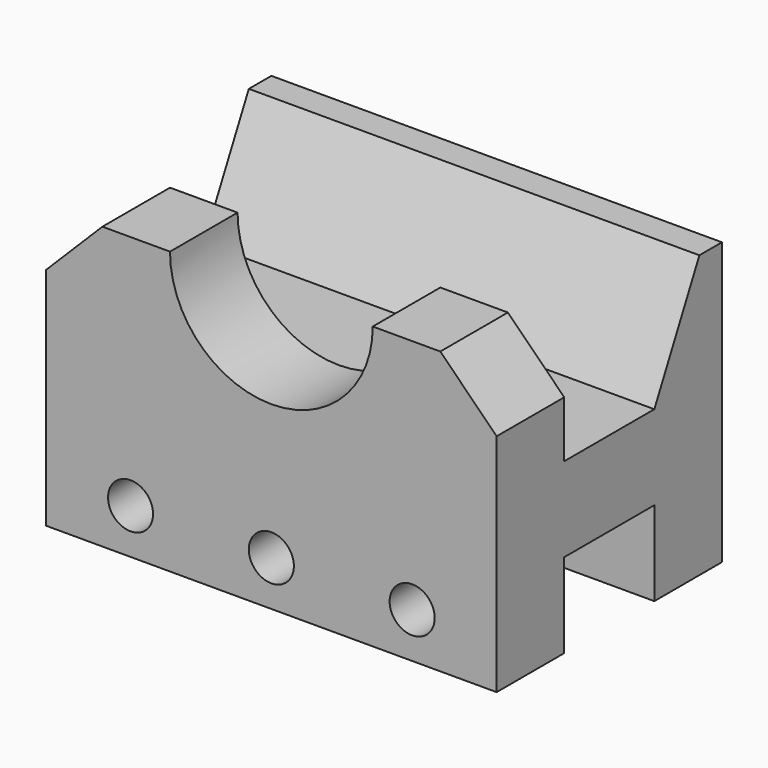
from build123d import *

# Parameters (mm, degrees)
F0_W      = 80
F0_H      = 50
F1_DEPTH  = 50
F2_W      = 20
F2_H      = 15
F3_DEPTH  = 80.001
F5_DEPTH  = 80.001
F7_DEPTH  = 15
F8_SIZE   = 10
F9_R      = 4
F10_DEPTH = 50.001


with BuildPart() as f1:
    # F0 (on Top) → F1 (new body)
    with BuildSketch(Plane.XY):
        Rectangle(F0_W, F0_H)
    extrude(amount=F1_DEPTH)

    # F2 (on face) → F3 (cut, through all)
    with BuildSketch(Plane.YZ.offset(40)):
        with Locations((0, 7.5)):
            Rectangle(F2_W, F2_H)
    extrude(amount=-F3_DEPTH, mode=Mode.SUBTRACT)

    # F4 (on face) → F5 (cut, through all)
    with BuildSketch(Plane.YZ.offset(40)):
        Polygon((20, 50), (-10, 50), (-10, 30), (10, 30), align=None)
    extrude(amount=-F5_DEPTH, mode=Mode.SUBTRACT)

    # F6 (on face) → F7 (cut, through all)
    with BuildSketch(Plane.XZ.offset(25)):
        with BuildLine():
            ThreePointArc((-18, 50), (0, 32), (18, 50))
            Line((18, 50), (-18, 50))
        make_face()
    extrude(amount=-F7_DEPTH, mode=Mode.SUBTRACT)

    # F8
    f8_edges = [f1.edges().sort_by_distance(p)[0] for p in [
        (40, -17.5, 50),
        (-40, -17.5, 50),
    ]]
    chamfer(f8_edges, length=F8_SIZE)

    # F9 (on face) → F10 (cut, through all)
    with BuildSketch(Plane.XZ.offset(25)):
        with Locations((-25, 8)):
            Circle(F9_R)
        with Locations((0, 8)):
            Circle(F9_R)
        with Locations((25, 8)):
            Circle(F9_R)
    extrude(amount=-F10_DEPTH, mode=Mode.SUBTRACT)


solid = f1.part
